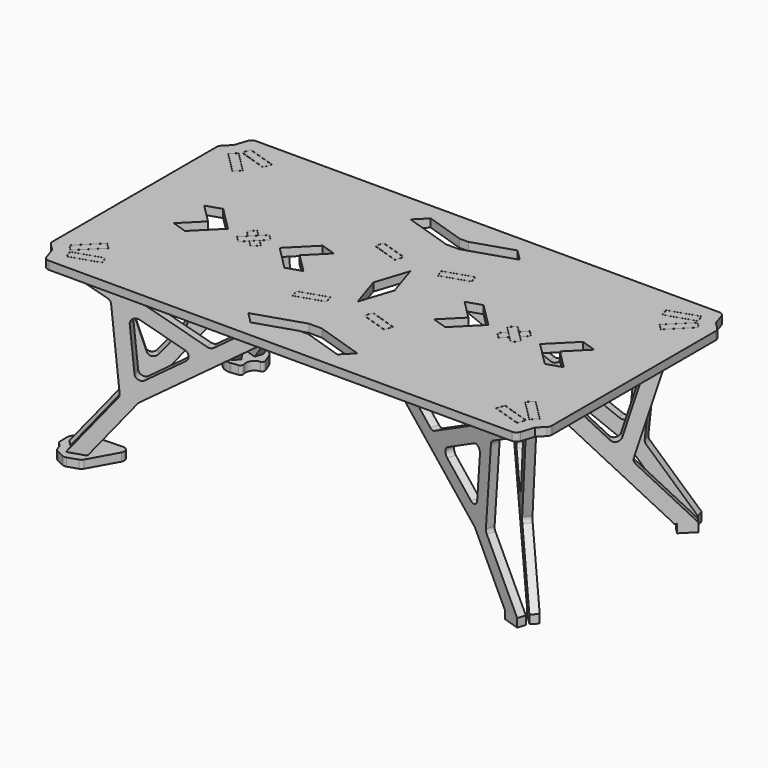
from build123d import *

# Parameters (mm, degrees)
F3_DEPTH  = 9.1313
F6_DEPTH  = 9.1313
F9_DEPTH  = 9.1313
F12_DEPTH = 9.1313
F13_DEPTH = 19.05
F16_DEPTH = 9.1313
F19_DEPTH = 9.1313
F22_DEPTH = 9.1313
F25_DEPTH = 9.1313
F28_DEPTH = 18.2626
F30_DEPTH = 18.2626


with BuildPart() as f3:
    # F2 (on line) → F3 (new body, symmetric)
    with BuildSketch(Plane(origin=(-3.7795413995, 11.6322323433, 0), x_dir=(-0.9510565163, -0.3090169944, 0), z_dir=(-0.3090169944, 0.9510565163, 0))):
        with BuildLine():
            Line((-55.3983447659, 377.3130775014), (-55.3983447661, 387.3500165951))
            Line((-55.3983447661, 387.3500165951), (-55.3983447661, 405.6126165951))
            Line((-55.3983447661, 405.6126165951), (-122.0655598511, 405.6126165951))
            Line((-122.0655598511, 405.6126165951), (-122.0655598511, 387.3500165951))
            Line((-122.0655598511, 387.3500165951), (-131.5905598511, 387.3500165951))
            Line((-131.5905598511, 387.3500165951), (-131.5905598511, 373.2632255825))
            Line((-131.5905598511, 373.2632255825), (-319.7685562865, 274.7499079043))
            ThreePointArc((-319.7685562865, 274.7499079043), (-326.3936426667, 273.3226237417), (-332.8094789266, 275.5057304069))
            Line((-332.8094789266, 275.5057304069), (-470.814616806, 369.5286688638))
            Line((-470.814616806, 369.5286688638), (-470.814616806, 387.3500165951))
            Line((-470.814616806, 387.3500165951), (-480.3518964118, 387.3500165951))
            Line((-480.3518964118, 387.3500165951), (-480.3518964118, 405.6126165951))
            Line((-480.3518964118, 405.6126165951), (-543.8468767471, 405.6126165951))
            Line((-543.8468767471, 405.6126165951), (-543.8468767471, 387.3500165951))
            Line((-543.8468767471, 387.3500165951), (-553.3623112506, 387.3500165951))
            Line((-553.3623112506, 387.3500165951), (-192.286898525, 141.3492384308))
            ThreePointArc((-192.286898525, 141.3492384308), (-190.7604001676, 140.1270682946), (-189.4396218508, 138.6850413479))
            Line((-189.4396218508, 138.6850413479), (-95.7291400896, 19.0500165951))
            Line((-95.7291400896, 19.0500165951), (-93.4984011164, 19.0500165951))
            Line((-93.4984011164, 19.0500165951), (-93.4984011164, 1.65951e-05))
            Line((-93.4984011164, 1.65951e-05), (-80.8072166709, 1.65951e-05))
            Line((-80.8072166709, 1.65951e-05), (-55.3983447661, 1.65951e-05))
            Line((-55.3983447661, 1.65951e-05), (-55.3983447661, 19.0500165951))
            Line((-55.3983447661, 19.0500165951), (-152.6862403034, 143.2521290162))
            ThreePointArc((-152.6862403034, 143.2521290162), (-154.8705185765, 147.4941920102), (-155.3352697568, 152.2428946077))
            Line((-155.3352697568, 152.2428946077), (-139.3319983302, 326.817981594))
            ThreePointArc((-139.3319983302, 326.817981594), (-137.2382147121, 332.7240585161), (-132.5752818335, 336.9100746913))
            Line((-132.5752818335, 336.9100746913), (-55.3983447659, 377.3130775014))
        make_face()
        with BuildLine():
            Line((-202.9697910992, 187.04591532), (-279.2677082594, 239.0277073009))
            ThreePointArc((-279.2677082594, 239.0277073009), (-284.7957650545, 250.2581541802), (-278.0072978902, 260.7747630727))
            Line((-278.0072978902, 260.7747630727), (-192.8578797691, 305.3514502326))
            ThreePointArc((-192.8578797691, 305.3514502326), (-179.9022006716, 304.6532001095), (-174.3206510014, 292.9406650555))
            Line((-174.3206510014, 292.9406650555), (-183.1721519624, 196.3821859147))
            ThreePointArc((-183.1721519624, 196.3821859147), (-190.4021298174, 186.0547496557), (-202.9697910992, 187.04591532))
        make_face(mode=Mode.SUBTRACT)
    extrude(amount=F3_DEPTH, both=True)


with BuildPart() as f6:
    # F5 (on face) → F6 (new body, symmetric)
    with BuildSketch(Plane(origin=(-6.7351920908, 6.7351920908, 0), x_dir=(0.7071067812, 0.7071067812, 0), z_dir=(0.7071067812, -0.7071067812, 0))):
        with BuildLine():
            Line((357.0277426844, 387.349518292), (347.5027426844, 387.349518292))
            Line((347.5027426844, 387.349518292), (347.5027426844, 371.5832715194))
            Line((347.5027426844, 371.5832715194), (356.3536084565, 363.5444358892))
            ThreePointArc((356.3536084565, 363.5444358892), (360.5003189869, 354.7531739603), (357.2161251974, 345.6046458996))
            Line((357.2161251974, 345.6046458996), (303.3963943555, 286.3484009056))
            ThreePointArc((303.3963943555, 286.3484009056), (295.7561109294, 282.3097032712), (287.300460227, 284.0949149152))
            Line((287.300460227, 284.0949149152), (136.813689745, 377.4478142565))
            Line((136.813689745, 377.4478142565), (136.813689745, 387.3499604487))
            Line((136.813689745, 387.3499604487), (127.288689745, 387.3499604487))
            Line((127.288689745, 387.3499604487), (127.288689745, 405.6125604487))
            Line((127.288689745, 405.6125604487), (60.62147466, 405.6125604487))
            Line((60.62147466, 405.6125604487), (60.62147466, 387.3499604487))
            Line((60.62147466, 387.3499604487), (110.8212031839, 356.2090821586))
            ThreePointArc((110.8212031839, 356.2090821586), (114.2063213274, 353.1426076092), (116.2876402006, 349.0768478085))
            Line((116.2876402006, 349.0768478085), (174.9645668613, 154.1028944597))
            ThreePointArc((174.9645668613, 154.1028944597), (175.1902358863, 147.6403226092), (172.2045024467, 141.9043695708))
            Line((172.2045024467, 141.9043695708), (60.62147466, 19.0499604487))
            Line((60.62147466, 19.0499604487), (60.62147466, -3.95513e-05))
            Line((60.62147466, -3.95513e-05), (98.7215310102, -3.95513e-05))
            Line((98.7215310102, -3.95513e-05), (98.7215310102, 19.0499604487))
            Line((98.7215310102, 19.0499604487), (103.5124885954, 19.0499604487))
            Line((103.5124885954, 19.0499604487), (376.2424190756, 319.3292692617))
            Line((376.2424190756, 319.3292692617), (376.2424190756, 380.974118292))
            Line((376.2424190756, 380.974118292), (394.9622360748, 380.974118292))
            Line((394.9622360748, 380.974118292), (394.9622360748, 339.9400386764))
            Line((394.9622360748, 339.9400386764), (423.7023338443, 371.5832715194))
            Line((423.7023338443, 371.5832715194), (423.7023338443, 387.349518292))
            Line((423.7023338443, 387.349518292), (414.1773338443, 387.349518292))
            Line((414.1773338443, 387.349518292), (414.1773338443, 405.6125604487))
            Line((414.1773338443, 405.6125604487), (357.0277426844, 405.6125604487))
            Line((357.0277426844, 405.6125604487), (357.0277426844, 387.349518292))
        make_face()
        with BuildLine():
            Line((264.3264179086, 243.3318331891), (217.03272768, 191.2608463779))
            ThreePointArc((217.03272768, 191.2608463779), (204.8288907288, 187.4125961973), (195.4703565348, 196.1395947376))
            Line((195.4703565348, 196.1395947376), (165.3467059447, 296.2356218999))
            ThreePointArc((165.3467059447, 296.2356218999), (169.7822756593, 309.9754090713), (184.2027044878, 310.6876327794))
            Line((184.2027044878, 310.6876327794), (261.6200453064, 262.6625924282))
            ThreePointArc((261.6200453064, 262.6625924282), (267.502598802, 253.6313397526), (264.3264179086, 243.3318331891))
        make_face(mode=Mode.SUBTRACT)
    extrude(amount=F6_DEPTH, both=True)


with BuildPart() as f9:
    # F8 (on face) → F9 (new body, symmetric)
    with BuildSketch(Plane(origin=(272.6648079092, 272.6648079092, 0), x_dir=(-0.7071067812, 0.7071067812, 0), z_dir=(0.7071067812, 0.7071067812, 0))):
        with BuildLine():
            Line((-19.0499977694, 387.3494005204), (-28.5749977694, 387.3494005204))
            Line((-28.5749977694, 387.3494005204), (-28.5749977694, 371.5831537478))
            Line((-28.5749977694, 371.5831537478), (291.6148474794, 19.0498426771))
            Line((291.6148474794, 19.0498426771), (296.4058050646, 19.0498426771))
            Line((296.4058050646, 19.0498426771), (296.4058050646, -0.0001573229))
            Line((296.4058050646, -0.0001573229), (334.5058614148, -0.0001573229))
            Line((334.5058614148, -0.0001573229), (334.5058614148, 19.0498426771))
            Line((334.5058614148, 19.0498426771), (222.9228336281, 141.9042517992))
            ThreePointArc((222.9228336281, 141.9042517992), (219.9371001885, 147.6402048376), (220.1627692135, 154.1027766881))
            Line((220.1627692135, 154.1027766881), (278.8396958743, 349.0767300369))
            ThreePointArc((278.8396958743, 349.0767300369), (280.9210147474, 353.1424898376), (284.306132891, 356.208964387))
            Line((284.306132891, 356.208964387), (334.5058614148, 387.3498426771))
            Line((334.5058614148, 387.3498426771), (334.5058614148, 405.6124426771))
            Line((334.5058614148, 405.6124426771), (267.8386463298, 405.6124426771))
            Line((267.8386463298, 405.6124426771), (267.8386463298, 387.3498426771))
            Line((267.8386463298, 387.3498426771), (258.3136463298, 387.3498426771))
            Line((258.3136463298, 387.3498426771), (258.3136463298, 377.4476964849))
            Line((258.3136463298, 377.4476964849), (107.8268758478, 284.0947971436))
            ThreePointArc((107.8268758478, 284.0947971436), (99.3712251455, 282.3095854996), (91.7309417193, 286.3482831341))
            Line((91.7309417193, 286.3482831341), (37.9112108774, 345.604528128))
            ThreePointArc((37.9112108774, 345.604528128), (34.627017088, 354.7530561888), (38.7737276184, 363.5443181176))
            Line((38.7737276184, 363.5443181176), (47.6245933904, 371.5831537478))
            Line((47.6245933904, 371.5831537478), (47.6245933904, 387.3494005204))
            Line((47.6245933904, 387.3494005204), (38.0995933904, 387.3494005204))
            Line((38.0995933904, 387.3494005204), (38.0995933904, 405.6124426771))
            Line((38.0995933904, 405.6124426771), (18.8849, 405.6124426771))
            Line((18.8849, 405.6124426771), (18.8849, 380.5422005204))
            Line((18.8849, 380.5422005204), (0.1651, 380.5422005204))
            Line((0.1651, 380.5422005204), (0.1651, 405.6124426771))
            Line((0.1651, 405.6124426771), (-19.0499977694, 405.6124426771))
            Line((-19.0499977694, 405.6124426771), (-19.0499977694, 387.3494005204))
        make_face()
        with BuildLine():
            ThreePointArc((199.6569795401, 196.139476966), (190.298445346, 187.4124784257), (178.0946083949, 191.2607286063))
            Line((178.0946083949, 191.2607286063), (130.8009181663, 243.3317154175))
            ThreePointArc((130.8009181663, 243.3317154175), (127.6247372728, 253.631221981), (133.5072907684, 262.6624746566))
            Line((133.5072907684, 262.6624746566), (210.924631587, 310.6875150078))
            ThreePointArc((210.924631587, 310.6875150078), (225.3450604155, 309.9752912997), (229.7806301301, 296.2355041283))
            Line((229.7806301301, 296.2355041283), (199.6569795401, 196.139476966))
        make_face(mode=Mode.SUBTRACT)
    extrude(amount=F9_DEPTH, both=True)


with BuildPart() as f12:
    # F11 (on line) → F12 (new body, symmetric)
    with BuildSketch(Plane(origin=(160.447658091, 493.807115885, 0), x_dir=(-0.9510565163, 0.3090169944, 0), z_dir=(0.3090169944, 0.9510565163, 0))):
        with BuildLine():
            Line((117.2803059776, 377.3133479609), (117.2803059774, 387.3502870545))
            Line((117.2803059774, 387.3502870545), (117.2803059776, 405.6128870545))
            Line((117.2803059776, 405.6128870545), (50.6130908923, 405.6128870545))
            Line((50.6130908923, 405.6128870545), (50.6130908923, 387.3502870545))
            Line((50.6130908923, 387.3502870545), (41.0880908923, 387.3502870545))
            Line((41.0880908923, 387.3502870545), (41.0880908923, 373.263496042))
            Line((41.0880908923, 373.263496042), (-147.0899055431, 274.7501783637))
            ThreePointArc((-147.0899055431, 274.7501783637), (-153.7149919233, 273.3228942012), (-160.1308281832, 275.5060008664))
            Line((-160.1308281832, 275.5060008664), (-298.1359660625, 369.5289393233))
            Line((-298.1359660625, 369.5289393233), (-298.1359660625, 387.3502870545))
            Line((-298.1359660625, 387.3502870545), (-307.6732456684, 387.3502870545))
            Line((-307.6732456684, 387.3502870545), (-307.6732456684, 405.6128870545))
            Line((-307.6732456684, 405.6128870545), (-371.1682260036, 405.6128870545))
            Line((-371.1682260036, 405.6128870545), (-371.1682260036, 387.3502870545))
            Line((-371.1682260036, 387.3502870545), (-380.6836605072, 387.3502870545))
            Line((-380.6836605072, 387.3502870545), (-19.6082477816, 141.3495088903))
            ThreePointArc((-19.6082477816, 141.3495088903), (-18.0817494242, 140.127338754), (-16.7609711074, 138.6853118073))
            Line((-16.7609711074, 138.6853118073), (76.9495106539, 19.0502870545))
            Line((76.9495106539, 19.0502870545), (79.180249627, 19.0502870545))
            Line((79.180249627, 19.0502870545), (79.180249627, 0.0002870545))
            Line((79.180249627, 0.0002870545), (91.8714340725, 0.0002870545))
            Line((91.8714340725, 0.0002870545), (117.2803059773, 0.0002870545))
            Line((117.2803059773, 0.0002870545), (117.2803059773, 19.0502870545))
            Line((117.2803059773, 19.0502870545), (19.99241044, 143.2523994757))
            ThreePointArc((19.99241044, 143.2523994757), (17.808132167, 147.4944624697), (17.3433809866, 152.2431650672))
            Line((17.3433809866, 152.2431650672), (33.3466524132, 326.8182520535))
            ThreePointArc((33.3466524132, 326.8182520535), (35.4404360313, 332.7243289756), (40.10336891, 336.9103451508))
            Line((40.10336891, 336.9103451508), (117.2803059776, 377.3133479609))
        make_face()
        with BuildLine():
            Line((-30.2911403558, 187.0461857795), (-106.5890575159, 239.0279777603))
            ThreePointArc((-106.5890575159, 239.0279777603), (-112.1171143111, 250.2584246396), (-105.3286471468, 260.7750335321))
            Line((-105.3286471468, 260.7750335321), (-20.1792290257, 305.3517206921))
            ThreePointArc((-20.1792290257, 305.3517206921), (-7.2235499282, 304.653470569), (-1.642000258, 292.940935515))
            Line((-1.642000258, 292.940935515), (-10.493501219, 196.3824563742))
            ThreePointArc((-10.493501219, 196.3824563742), (-17.723479074, 186.0550201151), (-30.2911403558, 187.0461857795))
        make_face(mode=Mode.SUBTRACT)
    extrude(amount=F12_DEPTH, both=True)


with BuildPart() as f13:
    # F0 (on Top) → F13 (new body)
    with BuildSketch(Plane.XY):
        with BuildLine():
            Line((108.9721311531, 508.4150326597), (108.0646536839, 510.8273857647))
            Line((108.0646536839, 510.8273857647), (102.6857121374, 525.1262601529))
            Line((102.6857121374, 525.1262601529), (102.5212606457, 525.5634225951))
            ThreePointArc((102.5212606457, 525.5634225951), (96.0130061213, 535.3183359746), (85.9712870341, 541.3747036791))
            Line((85.9712870341, 541.3747036791), (85.5270761414, 541.5190365474))
            Line((85.5270761414, 541.5190365474), (55.7752426417, 551.1859932505))
            ThreePointArc((55.7752426417, 551.1859932505), (46.2631394193, 550.073833213), (39.7723090562, 543.0320913221))
            Line((39.7723090562, 543.0320913221), (38.6174952856, 539.4779399919))
            ThreePointArc((38.6174952856, 539.4779399919), (38.3119840148, 537.2567878393), (38.7974450794, 535.0679110551))
            ThreePointArc((38.7974450794, 535.0679110551), (37.8273647026, 522.4989085302), (27.0687087255, 515.928352848))
            ThreePointArc((27.0687087255, 515.928352848), (24.8980105187, 515.3671725587), (23.057648674, 514.0865780474))
            Line((23.057648674, 514.0865780474), (20.4151511317, 511.4440805051))
            Line((20.4151511317, 511.4440805051), (19.2462843068, 510.2752136802))
            ThreePointArc((19.2462843068, 510.2752136802), (16.3243220323, 502.463824384), (19.2462843068, 494.6524350878))
            Line((19.2462843068, 494.6524350878), (20.4151511317, 493.4835682629))
            Line((20.4151511317, 493.4835682629), (42.8657914344, 471.0329279603))
            ThreePointArc((42.8657914344, 471.0329279603), (52.8844986458, 465.0167568743), (64.4672768267, 463.464964898))
            Line((64.4672768267, 463.464964898), (66.8086863644, 463.7269644518))
            Line((66.8086863644, 463.7269644518), (82.6752380638, 465.5024033057))
            ThreePointArc((82.6752380638, 465.5024033057), (87.314093897, 468.3846874813), (87.9992525085, 473.8029070401))
            ThreePointArc((87.9992525085, 473.8029070401), (89.9439097096, 490.5618486748), (103.9933801501, 499.9029512161))
            ThreePointArc((103.9933801501, 499.9029512161), (108.509993626, 502.9732522143), (108.9721311531, 508.4150326597))
        make_face()
        Polygon((29.287632948, 502.4638131526), (42.8657914344, 516.0419716391), (69.8946765412, 489.0130865323), (56.3221515296, 475.4405615207), align=None, mode=Mode.SUBTRACT)
        Polygon((82.2723627795, 509.1926314047), (82.2488156845, 509.1201608981), (45.8679354688, 520.9410254465), (51.8018034015, 539.203593095), (88.1826836173, 527.3827285466), align=None, mode=Mode.SUBTRACT)
    extrude(amount=F13_DEPTH)


with BuildPart() as f16:
    # F15 (on line) → F16 (new body, symmetric)
    with BuildSketch(Plane(origin=(-53.7263545477, 165.352716904, 0), x_dir=(0.9510565163, 0.3090169944, 0), z_dir=(0.3090169944, -0.9510565163, 0))):
        with BuildLine():
            Line((1180.1808543021, 1.65951e-05), (1180.1808543021, 19.0500165951))
            Line((1180.1808543021, 19.0500165951), (1082.8929587648, 143.2521290162))
            ThreePointArc((1082.8929587648, 143.2521290162), (1080.7086804917, 147.4941920102), (1080.2439293114, 152.2428946077))
            Line((1080.2439293114, 152.2428946077), (1096.247200738, 326.817981594))
            ThreePointArc((1096.247200738, 326.817981594), (1098.3409843561, 332.7240585161), (1103.0039172347, 336.9100746913))
            Line((1103.0039172347, 336.9100746913), (1180.1808543023, 377.3130775014))
            Line((1180.1808543023, 377.3130775014), (1180.1808543017, 405.6126165951))
            Line((1180.1808543017, 405.6126165951), (1113.5136392175, 405.6126165951))
            Line((1113.5136392175, 405.6126165951), (1113.5136392171, 387.3500165951))
            Line((1113.5136392171, 387.3500165951), (1103.9886392171, 387.3500165951))
            Line((1103.9886392171, 387.3500165951), (1103.9886392171, 373.2632255825))
            Line((1103.9886392171, 373.2632255825), (915.8106427817, 274.7499079043))
            ThreePointArc((915.8106427817, 274.7499079043), (909.1855564015, 273.3226237417), (902.7697201416, 275.5057304069))
            Line((902.7697201416, 275.5057304069), (764.7645822622, 369.5286688638))
            Line((764.7645822622, 369.5286688638), (764.7645822622, 387.3500165951))
            Line((764.7645822622, 387.3500165951), (755.2273026564, 387.3500165951))
            Line((755.2273026564, 387.3500165951), (755.2273026564, 405.6126165951))
            Line((755.2273026564, 405.6126165951), (691.7323223211, 405.6126165951))
            Line((691.7323223211, 405.6126165951), (691.7323223211, 387.3500165951))
            Line((691.7323223211, 387.3500165951), (682.2168878176, 387.3500165951))
            Line((682.2168878176, 387.3500165951), (1043.2923005432, 141.3492384308))
            ThreePointArc((1043.2923005432, 141.3492384308), (1044.8187989006, 140.1270682946), (1046.1395772174, 138.6850413479))
            Line((1046.1395772174, 138.6850413479), (1139.8500589786, 19.0500165951))
            Line((1139.8500589786, 19.0500165951), (1142.0807979518, 19.0500165951))
            Line((1142.0807979518, 19.0500165951), (1142.0807979518, 1.65951e-05))
            Line((1142.0807979518, 1.65951e-05), (1154.7719823973, 1.65951e-05))
            Line((1154.7719823973, 1.65951e-05), (1180.1808543021, 1.65951e-05))
        make_face()
        with BuildLine():
            Line((1032.6094079689, 187.04591532), (956.3114908088, 239.0277073009))
            ThreePointArc((956.3114908088, 239.0277073009), (950.7834340137, 250.2581541802), (957.571901178, 260.7747630727))
            Line((957.571901178, 260.7747630727), (1042.7213192991, 305.3514502326))
            ThreePointArc((1042.7213192991, 305.3514502326), (1055.6769983966, 304.6532001095), (1061.2585480668, 292.9406650555))
            Line((1061.2585480668, 292.9406650555), (1052.4070471058, 196.3821859147))
            ThreePointArc((1052.4070471058, 196.3821859147), (1045.1770692508, 186.0547496557), (1032.6094079689, 187.04591532))
        make_face(mode=Mode.SUBTRACT)
    extrude(amount=F16_DEPTH, both=True)


with BuildPart() as f19:
    # F18 (on face) → F19 (new body, symmetric)
    with BuildSketch(Plane(origin=(286.1343070984, -286.1343070984, 0), x_dir=(0.7071067812, 0.7071067812, 0), z_dir=(0.7071067812, -0.7071067812, 0))):
        with BuildLine():
            Line((771.2232656205, 387.3497275167), (761.6982656205, 387.3497275167))
            Line((761.6982656205, 387.3497275167), (761.6982656205, 371.5834807441))
            Line((761.6982656205, 371.5834807441), (1081.8881108694, 19.0501696734))
            Line((1081.8881108694, 19.0501696734), (1086.6790684546, 19.0501696734))
            Line((1086.6790684546, 19.0501696734), (1086.6790684546, 0.0001696734))
            Line((1086.6790684546, 0.0001696734), (1124.7791248048, 0.0001696734))
            Line((1124.7791248048, 0.0001696734), (1124.7791248048, 19.0501696734))
            Line((1124.7791248048, 19.0501696734), (1013.1960970181, 141.9045787955))
            ThreePointArc((1013.1960970181, 141.9045787955), (1010.2103635785, 147.640531834), (1010.4360326035, 154.1031036845))
            Line((1010.4360326035, 154.1031036845), (1069.1129592642, 349.0770570332))
            ThreePointArc((1069.1129592642, 349.0770570332), (1071.1942781374, 353.1428168339), (1074.5793962809, 356.2092913833))
            Line((1074.579396281, 356.2092913833), (1124.7791248048, 387.3501696734))
            Line((1124.7791248048, 387.3501696734), (1124.7791248048, 405.6127696734))
            Line((1124.7791248048, 405.6127696734), (1058.1119097198, 405.6127696734))
            Line((1058.1119097198, 405.6127696734), (1058.1119097198, 387.3501696734))
            Line((1058.1119097198, 387.3501696734), (1048.5869097198, 387.3501696734))
            Line((1048.5869097198, 387.3501696734), (1048.5869097198, 377.4480234812))
            Line((1048.5869097198, 377.4480234812), (898.1001392378, 284.0951241399))
            ThreePointArc((898.1001392378, 284.0951241399), (889.6444885354, 282.3099124959), (882.0042051093, 286.3486101304))
            Line((882.0042051093, 286.3486101304), (828.1844742674, 345.6048551243))
            ThreePointArc((828.1844742674, 345.6048551243), (824.9002804779, 354.7533831851), (829.0469910084, 363.5446451139))
            Line((829.0469910084, 363.5446451139), (837.8978567804, 371.5834807441))
            Line((837.8978567804, 371.5834807441), (837.8978567804, 387.3497275167))
            Line((837.8978567804, 387.3497275167), (828.3728567804, 387.3497275167))
            Line((828.3728567804, 387.3497275167), (828.3728567804, 405.6127696734))
            Line((828.3728567804, 405.6127696734), (809.1581803892, 405.6127696734))
            Line((809.1581803892, 405.6127696734), (809.1581803892, 380.9997275167))
            Line((809.1581803892, 380.9997275167), (790.43836339, 380.9997275167))
            Line((790.43836339, 380.9997275167), (790.43836339, 405.6127696734))
            Line((790.43836339, 405.6127696734), (771.2232656205, 405.6127696734))
            Line((771.2232656205, 405.6127696734), (771.2232656205, 387.3497275167))
        make_face()
        with BuildLine():
            ThreePointArc((989.93024293, 196.1398039623), (980.571708736, 187.412805422), (968.3678717848, 191.2610556026))
            Line((968.3678717848, 191.2610556026), (921.0741815563, 243.3320424138))
            ThreePointArc((921.0741815563, 243.3320424138), (917.8980006628, 253.6315489773), (923.7805541584, 262.6628016529))
            Line((923.7805541584, 262.6628016529), (1001.197894977, 310.6878420041))
            ThreePointArc((1001.197894977, 310.6878420041), (1015.6183238055, 309.9756182961), (1020.0538935201, 296.2358311246))
            Line((1020.0538935201, 296.2358311246), (989.93024293, 196.1398039623))
        make_face(mode=Mode.SUBTRACT)
    extrude(amount=F19_DEPTH, both=True)


with BuildPart() as f22:
    # F21 (on face) → F22 (new body, symmetric)
    with BuildSketch(Plane(origin=(565.5346565187, 565.5346565187, 0), x_dir=(-0.7071067812, 0.7071067812, 0), z_dir=(0.7071067812, 0.7071067812, 0))):
        with BuildLine():
            Line((-414.0149177588, 318.0613976679), (-414.0149177588, 380.9739374217))
            Line((-414.0149177588, 380.9739374217), (-395.2951177588, 380.9739374217))
            Line((-395.2951177588, 380.9739374217), (-395.2951177588, 338.6721483663))
            Line((-395.2951177588, 338.6721483663), (-365.4036176207, 371.5830906491))
            Line((-365.4036176207, 371.5830906491), (-365.4036176207, 387.3493374217))
            Line((-365.4036176207, 387.3493374217), (-374.9286176207, 387.3493374217))
            Line((-374.9286176207, 387.3493374217), (-374.9286176207, 405.6123795784))
            Line((-374.9286176207, 405.6123795784), (-432.0782087806, 405.6123795784))
            Line((-432.0782087806, 405.6123795784), (-432.0782087806, 387.3493374217))
            Line((-432.0782087806, 387.3493374217), (-441.6032087806, 387.3493374217))
            Line((-441.6032087806, 387.3493374217), (-441.6032087806, 371.5830906491))
            Line((-441.6032087806, 371.5830906491), (-432.7523430086, 363.5442550189))
            ThreePointArc((-432.7523430086, 363.5442550189), (-428.6056324781, 354.7529930901), (-431.8898262676, 345.6044650293))
            Line((-431.8898262676, 345.6044650293), (-485.7095571095, 286.3482200354))
            ThreePointArc((-485.7095571095, 286.3482200354), (-493.3498405356, 282.3095224009), (-501.805491238, 284.0947340449))
            Line((-501.805491238, 284.0947340449), (-652.29226172, 377.4476333862))
            Line((-652.29226172, 377.4476333862), (-652.29226172, 387.3497795784))
            Line((-652.29226172, 387.3497795784), (-661.81726172, 387.3497795784))
            Line((-661.81726172, 387.3497795784), (-661.81726172, 405.6123795784))
            Line((-661.81726172, 405.6123795784), (-728.484476805, 405.6123795784))
            Line((-728.484476805, 405.6123795784), (-728.484476805, 387.3497795784))
            Line((-728.484476805, 387.3497795784), (-678.2847482812, 356.2089012884))
            ThreePointArc((-678.2847482812, 356.2089012884), (-674.8996301376, 353.1424267389), (-672.8183112644, 349.0766669382))
            Line((-672.8183112644, 349.0766669382), (-614.1413846037, 154.1027135895))
            ThreePointArc((-614.1413846037, 154.1027135895), (-613.9157155787, 147.640141739), (-616.9014490183, 141.9041887005))
            Line((-616.9014490183, 141.9041887005), (-728.484476805, 19.0497795784))
            Line((-728.484476805, 19.0497795784), (-728.484476805, -0.0002204216))
            Line((-728.484476805, -0.0002204216), (-690.3844204548, -0.0002204216))
            Line((-690.3844204548, -0.0002204216), (-690.3844204548, 19.0497795784))
            Line((-690.3844204548, 19.0497795784), (-685.5934628696, 19.0497795784))
            Line((-685.5934628696, 19.0497795784), (-414.0149177588, 318.0613976679))
        make_face()
        with BuildLine():
            Line((-524.7795335565, 243.3316523188), (-572.073223785, 191.2606655076))
            ThreePointArc((-572.073223785, 191.2606655076), (-584.2770607362, 187.412415327), (-593.6355949302, 196.1394138673))
            Line((-593.6355949302, 196.1394138673), (-623.7592455203, 296.2354410296))
            ThreePointArc((-623.7592455203, 296.2354410296), (-619.3236758057, 309.9752282011), (-604.9032469772, 310.6874519091))
            Line((-604.9032469772, 310.6874519091), (-527.4859061586, 262.6624115579))
            ThreePointArc((-527.4859061586, 262.6624115579), (-521.603352663, 253.6311588823), (-524.7795335565, 243.3316523188))
        make_face(mode=Mode.SUBTRACT)
    extrude(amount=F22_DEPTH, both=True)


with BuildPart() as f25:
    # F24 (on line) → F25 (new body, symmetric)
    with BuildSketch(Plane(origin=(110.5008449428, 340.0866313244, 0), x_dir=(0.9510565163, -0.3090169944, 0), z_dir=(-0.3090169944, -0.9510565163, 0))):
        with BuildLine():
            Line((1007.5021678454, 1.65951e-05), (1007.5021678454, 19.0500165951))
            Line((1007.5021678454, 19.0500165951), (910.2142723081, 143.2521290162))
            ThreePointArc((910.2142723081, 143.2521290162), (908.029994035, 147.4941920102), (907.5652428547, 152.2428946077))
            Line((907.5652428547, 152.2428946077), (923.5685142813, 326.817981594))
            ThreePointArc((923.5685142813, 326.817981594), (925.6622978993, 332.7240585161), (930.325230778, 336.9100746913))
            Line((930.325230778, 336.9100746913), (1007.5021678456, 377.3130775014))
            Line((1007.5021678456, 377.3130775014), (1007.502167845, 405.6126165951))
            Line((1007.502167845, 405.6126165951), (940.8349527604, 405.6126165951))
            Line((940.8349527604, 405.6126165951), (940.8349527604, 387.3500165954))
            Line((940.8349527604, 387.3500165951), (931.3099527604, 387.3500165951))
            Line((931.3099527604, 387.3500165951), (931.3099527604, 373.2632255825))
            Line((931.3099527604, 373.2632255825), (743.131956325, 274.7499079043))
            ThreePointArc((743.131956325, 274.7499079043), (736.5068699448, 273.3226237417), (730.0910336849, 275.5057304069))
            Line((730.0910336849, 275.5057304069), (592.0858958055, 369.5286688638))
            Line((592.0858958055, 369.5286688638), (592.0858958055, 387.3500165951))
            Line((592.0858958055, 387.3500165951), (582.5486161996, 387.3500165951))
            Line((582.5486161996, 387.3500165951), (582.5486161996, 405.6126165951))
            Line((582.5486161996, 405.6126165951), (519.0536358644, 405.6126165951))
            Line((519.0536358644, 405.6126165951), (519.0536358644, 387.3500165951))
            Line((519.0536358644, 387.3500165951), (509.5382013609, 387.3500165951))
            Line((509.5382013609, 387.3500165951), (870.6136140864, 141.3492384308))
            ThreePointArc((870.6136140864, 141.3492384308), (872.1401124439, 140.1270682946), (873.4608907606, 138.6850413479))
            Line((873.4608907606, 138.6850413479), (967.1713725219, 19.0500165951))
            Line((967.1713725219, 19.0500165951), (969.4021114951, 19.0500165951))
            Line((969.4021114951, 19.0500165951), (969.4021114951, 1.65951e-05))
            Line((969.4021114951, 1.65951e-05), (982.0932959406, 1.65951e-05))
            Line((982.0932959406, 1.65951e-05), (1007.5021678454, 1.65951e-05))
        make_face()
        with BuildLine():
            Line((859.9307215122, 187.04591532), (783.6328043521, 239.0277073009))
            ThreePointArc((783.6328043521, 239.0277073009), (778.104747557, 250.2581541802), (784.8932147213, 260.7747630727))
            Line((784.8932147213, 260.7747630727), (870.0426328424, 305.3514502326))
            ThreePointArc((870.0426328424, 305.3514502326), (882.9983119399, 304.6532001095), (888.5798616101, 292.9406650555))
            Line((888.5798616101, 292.9406650555), (879.728360649, 196.3821859147))
            ThreePointArc((879.728360649, 196.3821859147), (872.498382794, 186.0547496557), (859.9307215122, 187.04591532))
        make_face(mode=Mode.SUBTRACT)
    extrude(amount=F25_DEPTH, both=True)


with BuildPart() as f28:
    # F27 (on offset) → F28 (new body)
    with BuildSketch(Plane.XY.offset(387.350016595)):
        with BuildLine():
            Line((1116.2836030774, 519.6188597214), (1100.6141647543, 535.2882980445))
            Line((1100.6141647543, 535.2882980445), (1091.9364336125, 561.9956083196))
            ThreePointArc((1091.9364336125, 561.9956083196), (1087.3228885597, 568.3456083196), (1079.8580158555, 570.7710924911))
            Line((1079.8580158555, 570.7710924911), (37.7417588301, 570.7710924911))
            ThreePointArc((37.7417588301, 570.7710924911), (30.276886126, 568.3456083196), (25.6633410731, 561.9956083196))
            Line((25.6633410731, 561.9956083196), (16.8226006975, 534.786607209))
            Line((16.8226006975, 534.786607209), (1.3203142343, 519.2843207458))
            ThreePointArc((1.3203142343, 519.2843207458), (-1.4326997075, 515.1641442158), (-2.3994296446, 510.3040646248))
            Line((-2.3994296446, 510.3040646248), (-2.3994296446, 48.1670836963))
            ThreePointArc((-2.3994296446, 48.1670836963), (-1.4326997075, 43.3070041052), (1.3203142343, 39.1868275752))
            Line((1.3203142343, 39.1868275752), (16.9808075378, 23.5263342718))
            Line((16.9808075378, 23.5263342718), (25.6633279793, -3.1957159522))
            ThreePointArc((25.6633279793, -3.1957159522), (30.2768831607, -9.545723311), (37.7417707755, -11.9712001236))
            Line((37.7417707755, -11.9712001236), (1079.858684029, -11.9691454882))
            ThreePointArc((1079.858684029, -11.9691454882), (1087.3235418225, -9.5436539579), (1091.9370767467, -3.1936613168))
            Line((1091.9370767467, -3.1936613168), (1101.4060554481, 25.9488585465))
            Line((1101.4060554481, 25.9488585465), (1116.2836030774, 40.8264061758))
            ThreePointArc((1116.2836030774, 40.8264061758), (1119.0366170192, 44.9465827058), (1120.0033469563, 49.8066622969))
            Line((1120.0033469563, 49.8066622969), (1120.0033469563, 510.6386036003))
            ThreePointArc((1120.0033469563, 510.6386036003), (1119.0366170192, 515.4986831914), (1116.2836030774, 519.6188597214))
        make_face()
        Polygon((51.5823720283, 19.7788271645), (45.797635697, 37.5824149383), (109.6367480661, 58.324999937), (115.4214843974, 40.5214121633), align=None, mode=Mode.SUBTRACT)
        Polygon((42.5874678779, 42.820954537), (29.3505703554, 56.0578520595), (76.8146994452, 103.5219811493), (90.0515969677, 90.2850836268), align=None, mode=Mode.SUBTRACT)
        Polygon((544.0309650828, 86.3100826953), (573.5687971531, 86.3101599496), (681.6116887548, 51.2048964302), (656.4147460914, 26.0079537668), (568.5401316513, 54.5601467973), (549.0597115415, 54.5600958476), (461.18391799, 26.0075197006), (435.9869753266, 51.204462364), align=None, mode=Mode.SUBTRACT)
        Polygon((265.9296158184, 266.1631024776), (252.1783499841, 252.4118366433), (238.9414524617, 265.6487341658), (252.6927182959, 279.4), (238.944233691, 293.148484605), (252.1811312135, 306.3853821274), (265.9296158184, 292.6368975225), (279.6756051332, 306.3828868373), (292.9125026557, 293.1459893148), (279.1665133409, 279.4), (292.915283885, 265.6512294559), (279.6783863625, 252.4143319335), align=None, mode=Mode.SUBTRACT)
        Polygon((516.5593542828, 170.859006994), (455.7372164437, 151.096696443), (449.9524801124, 168.9002842168), (510.7746179515, 188.6625947677), align=None, mode=Mode.SUBTRACT)
        Polygon((1007.9630141698, 58.3250771913), (1071.8021265389, 37.5824921925), (1066.0173902076, 19.7789044188), (1002.1782778385, 40.5214894175), align=None, mode=Mode.SUBTRACT)
        Polygon((1074.1941659056, 43.6382496093), (1026.7300368158, 91.1023786991), (1039.9669343383, 104.3392762216), (1087.4310634281, 56.8751471318), align=None, mode=Mode.SUBTRACT)
        Polygon((606.8251442844, 188.6626720219), (667.6472821235, 168.900361471), (661.8625457921, 151.0967736973), (601.0404079531, 170.8590842482), align=None, mode=Mode.SUBTRACT)
        Polygon((120.1028287708, 322.1873283145), (153.9926416651, 333.1987960255), (207.7914376906, 279.4), (153.9926416651, 225.6012039745), (120.1028287708, 236.6126716856), (162.8901570853, 279.4), align=None, mode=Mode.SUBTRACT)
        Polygon((346.5184342489, 256.9493596973), (324.0677939462, 279.4), (377.8678155539, 333.2000216077), (411.7576284482, 322.1885538967), (368.9690745516, 279.4), (411.7576284482, 236.6114461033), (377.8678155539, 225.5999783923), align=None, mode=Mode.SUBTRACT)
        Polygon((558.7998685672, 205.248324836), (534.7065528307, 279.3999260343), (558.7998873428, 353.551585018), (582.8932030794, 279.3999838197), align=None, mode=Mode.SUBTRACT)
        Polygon((510.7746614275, 370.1373911061), (449.9525235884, 389.899701657), (455.7372599197, 407.7032894308), (516.5593977588, 387.9409788799), align=None, mode=Mode.SUBTRACT)
        Polygon((29.3533515847, 502.7393667112), (42.5902491072, 515.9762642337), (90.054378197, 468.5121351439), (76.8174806745, 455.2752376214), align=None, mode=Mode.SUBTRACT)
        Polygon((109.636791542, 500.4749859368), (45.7976791729, 521.2175709356), (51.5824155042, 539.0211587093), (115.4215278733, 518.2785737106), align=None, mode=Mode.SUBTRACT)
        Polygon((656.4152735503, 532.7922176149), (681.6122162136, 507.5952749515), (573.5687876426, 472.4898369603), (544.0310085587, 472.4899031785), (435.9869753266, 507.595537636), (461.18391799, 532.7924802994), (549.059749235, 504.2398919051), (568.5401163583, 504.2398482337), align=None, mode=Mode.SUBTRACT)
        Polygon((739.7313759864, 333.1997589232), (793.5307854893, 279.4003494203), (739.7308485276, 225.6004124586), (705.8410356332, 236.6118801696), (748.6295048839, 279.4003494203), (705.8415630921, 322.1882912122), align=None, mode=Mode.SUBTRACT)
        Polygon((601.0403984425, 387.9409126616), (661.8625362816, 407.7032232125), (667.6472726129, 389.8996354388), (606.8251347738, 370.1373248879), align=None, mode=Mode.SUBTRACT)
        Polygon((838.4320660946, 279.4003494203), (823.8691311278, 293.9632843871), (837.1060286503, 307.2001819096), (851.6689636171, 292.6372469428), (865.4255673276, 306.3938506533), (878.6624648501, 293.1569531308), (864.9058611395, 279.4003494203), (877.8401813218, 266.4660292381), (864.6032837993, 253.2291317156), (851.6689636171, 266.1634518979), (837.9283121786, 252.4228004593), (824.6914146561, 265.6596979818), align=None, mode=Mode.SUBTRACT)
        Polygon((932.2577820476, 256.9497091176), (909.8071417449, 279.4003494203), (932.2577820476, 301.850989723), (963.6059377704, 333.1991454458), (997.4957506647, 322.1876777348), (954.7084223502, 279.4003494203), (997.4957506647, 236.6130211059), (963.6059377704, 225.6015533948), align=None, mode=Mode.SUBTRACT)
        Polygon((1027.5523203441, 468.5206036698), (1075.0164494339, 515.9847327596), (1088.2533469563, 502.7478352371), (1040.7892178665, 455.2837061473), align=None, mode=Mode.SUBTRACT)
        Polygon((1002.1782683279, 518.2785074923), (1066.017380697, 539.0210924911), (1071.8021170283, 521.2175047173), (1007.9630046592, 500.4749197186), align=None, mode=Mode.SUBTRACT)
    extrude(amount=F28_DEPTH)


with BuildPart() as f30:
    # F29 (on Top) → F30 (new body)
    with BuildSketch(Plane.XY):
        with BuildLine():
            Line((21.2866462695, 37.5041682361), (28.3174228799, 30.4733916257))
            Line((28.3174228799, 30.4733916257), (31.6022490169, 20.3637363013))
            ThreePointArc((31.6022490169, 20.3637363013), (34.098330183, 15.953456064), (38.1201346954, 12.8702626832))
            Line((38.1201346954, 12.8702626832), (55.2736407355, 4.5165484816))
            ThreePointArc((55.2736407355, 4.5165484816), (59.9520284489, 3.2652119273), (64.7586886425, 3.8561201713))
            Line((64.7586886425, 3.8561201713), (86.9539211779, 11.0677883846))
            ThreePointArc((86.9539211779, 11.0677883846), (91.1109953443, 13.3493748602), (94.1413417159, 16.9968264828))
            Line((94.1413417159, 16.9968264828), (128.3508278856, 78.8134087316))
            ThreePointArc((128.3508278856, 78.8134087316), (128.0670374023, 91.5991470854), (116.8029979591, 97.6553057452))
            Line((116.8029979591, 97.6553057452), (46.1912666337, 95.2303180076))
            ThreePointArc((46.1912666337, 95.2303180076), (41.5664102917, 94.1859254129), (37.6469040726, 91.5180567738))
            Line((37.6469040726, 91.5180567738), (21.2866462695, 75.1577989706))
            ThreePointArc((21.2866462695, 75.1577989706), (18.5336323277, 71.0376224406), (17.5669023906, 66.1775428495))
            Line((17.5669023906, 66.1775428495), (17.5669023906, 46.4844243572))
            ThreePointArc((17.5669023906, 46.4844243572), (18.5336323277, 41.6243447661), (21.2866462695, 37.5041682361))
        make_face()
        Polygon((51.5822965877, 19.7788026524), (45.7975602564, 37.5823904261), (82.4771850523, 49.5003229728), (88.2619213836, 31.696735199), align=None, mode=Mode.SUBTRACT)
        Polygon((42.5874034946, 42.8208901538), (29.3505059722, 56.0577876762), (56.6151457774, 83.3224274815), (69.8520432999, 70.085529959), align=None, mode=Mode.SUBTRACT)
    extrude(amount=F30_DEPTH)


solid = Compound([f3.part, f6.part, f9.part, f12.part, f13.part, f16.part, f19.part, f22.part, f25.part, f28.part, f30.part])
